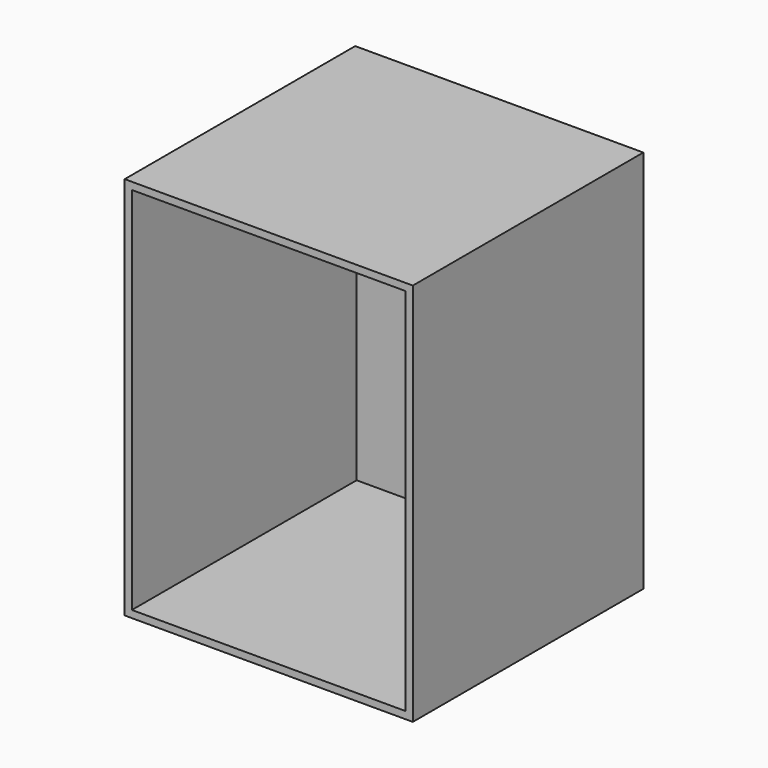
from build123d import *

# Parameters (mm, degrees)
F0_W     = 600
F0_H     = 800
F1_DEPTH = 600
F2_T     = -15


with BuildPart() as f1:
    # F0 (on Right) → F1 (new body)
    with BuildSketch(Plane.YZ):
        with Locations((300, 400)):
            Rectangle(F0_W, F0_H)
    extrude(amount=F1_DEPTH)

    # F2
    f2_openings = [f1.faces().sort_by_distance(p)[0] for p in [
        (300, 0, 400),
    ]]
    offset(amount=F2_T, openings=f2_openings)


with BuildPart() as f3_1:
    # F3: copy of F1
    add(f1.part.moved(Location((700, 0, 0))))


solid = f1.part
